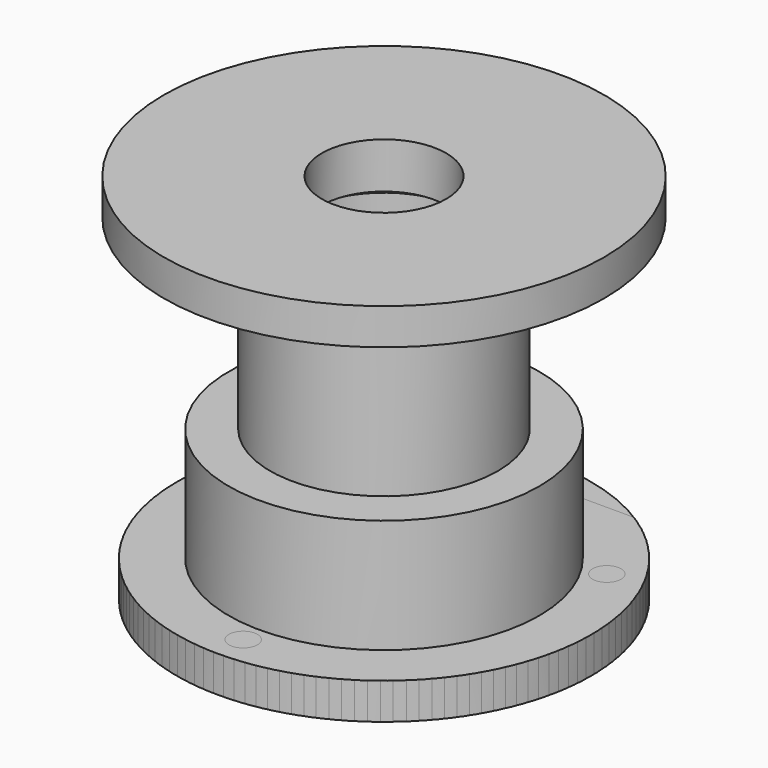
from build123d import *

# Parameters (mm, degrees)
F6_W     = 80
F6_H     = 8
F7_DEPTH = 10
F9_D     = 3.3
F9_DEPTH = 16
F9_TIP   = 0.9914200214
F11_D    = 5.5


with BuildPart() as f3:
    # F2 (on Front) → F3 (revolve)
    with BuildSketch(Plane.XZ):
        Polygon((22, 58), (40, 65), (42.5, 65), (42.5, 72), (11.999999553, 72), (11.999999553, 63.1361962541), (15.7, 61), (15.7, 50), (12.6, 50), (12.6, 45), (13, 45), (13, 26), (19, 26), (19, 23), (21, 23), (21, 0), (40, 0), (40, 7), (30, 7), (30, 29), (22, 29), align=None)
    revolve(axis=Axis((0, 0, 6.2499970198), (0, 0, 1)))


with BuildPart() as f4:
    # F1 (on Front) → F4 (revolve)
    with BuildSketch(Plane.XZ):
        Polygon((21, 23), (21, 0), (40, 0), (40, 7), (30, 7), (30, 29), (22, 29), (22, 57), (16.1, 57), (15.7, 56.307179677), (15.7, 50), (12.6, 50), (12.6, 45), (13, 45), (13, 26), (19, 26), (19, 23), align=None)
    revolve(axis=Axis((0, 0, 6.2499970198), (0, 0, 1)))

    # F6 (on offset) → F7 (cut)
    with BuildSketch(Plane.XZ.offset(-34)):
        with Locations((0, 3.5)):
            Rectangle(F6_W, F6_H)
    extrude(amount=-F7_DEPTH, mode=Mode.SUBTRACT)

    # F9
    with Locations(Plane.XY.offset(57)):
        with Locations((16.4544826719, 9.5), (0, -19), (-16.4544826719, 9.5)):
            Hole(F9_D / 2, depth=F9_DEPTH)
            with Locations((0, 0, -(F9_DEPTH + F9_TIP / 2))):  # 118° drill point
                Cone(0, F9_D / 2, F9_TIP, mode=Mode.SUBTRACT)

    # F11 (through all)
    with Locations(Plane.XY.offset(7)):
        with Locations((-29.4448637287, 17), (29.4448637287, 17), (0, -34)):
            Hole(F11_D / 2)


solid = Compound([f3.part, f4.part])
